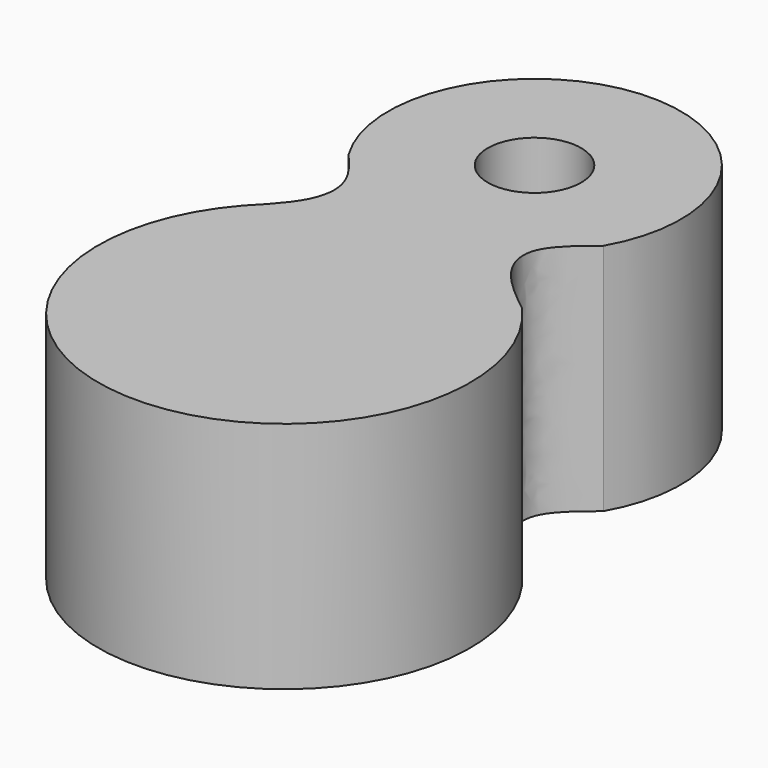
from build123d import *

# Parameters (mm, degrees)
F1_DEPTH = 25.4
F2_D     = 10.16


with BuildPart() as f1:
    # F0 (on Top) → F1 (new body)
    with BuildSketch(Plane.XY):
        with BuildLine():
            add(Edge.make_bspline(
                [(-13.7100163847, 12.9788173363), (-12.4863722513, 11.5414430545), (-10.1918765367, 8.8461748471), (-10.7057072132, 4.2242559095), (-13.3579996874, 1.4923212615), (-14.8068163544, 0)],
                knots=[0, 0, 0, 0, 0.3414517803, 0.6402675625, 1, 1, 1, 1], degree=3))
            ThreePointArc((-14.8068163544, 0), (0.3655990586, -33.5925494725), (15.5380144715, 0))
            add(Edge.make_bspline(
                [(13.7100145221, 13.3444173262), (11.9781094837, 11.9335853093), (8.8109129891, 9.353546497), (10.0241222697, 4.4047922136), (13.5389223726, 1.5969817671), (15.5380144715, 0)],
                knots=[0, 0, 0, 0, 0.3422584436, 0.6259002191, 1, 1, 1, 1], degree=3))
            ThreePointArc((13.7100145221, 13.3444173262), (-0.3197104944, 37.1398622542), (-13.7100163847, 12.9788173363))
        make_face()
    extrude(amount=F1_DEPTH)

    # F2 (through all)
    with Locations(Plane(origin=(0, 0, 0), x_dir=(1, 0, 0), z_dir=(0, 0, -1))):
        with Locations((-0.1075960341, -21.2312593567)):
            Hole(F2_D / 2)


solid = f1.part
